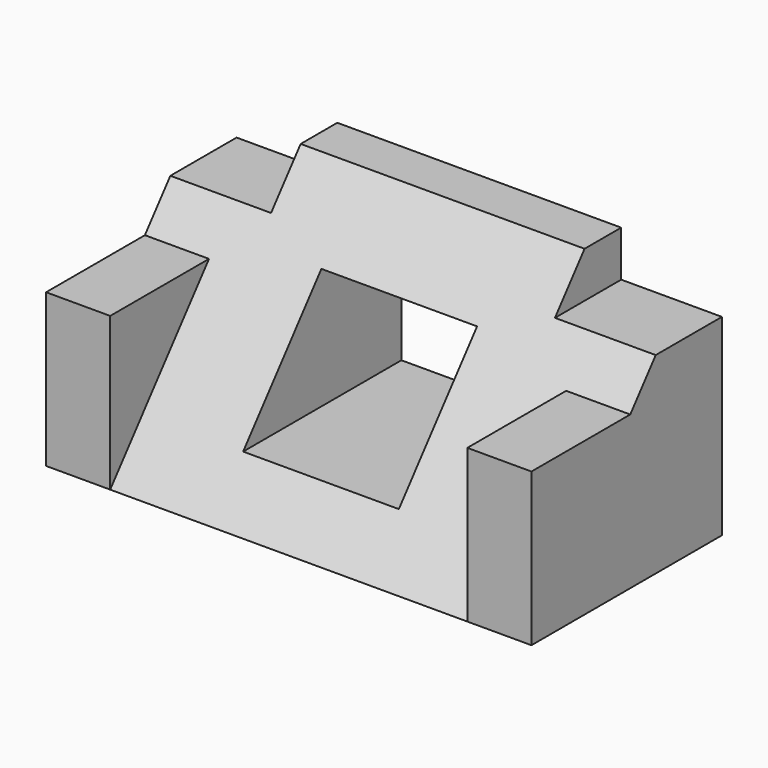
from build123d import *

# Parameters (mm, degrees)
PAD_DEPTH       = 26.5
PAD_DEPTH_BACK  = 26.5
SKETCH001_W     = 5
SKETCH001_H     = 11
POCKET_DEPTH    = 155.012627
SKETCH002_W     = 16.7
SKETCH002_H     = 7
PAD001_DEPTH    = 26
SKETCH004_W     = 13.225
SKETCH004_H     = 17
POCKET001_DEPTH = 26.001


with BuildPart() as part:
    # Sketch → Pad (new body, two sides)
    with BuildSketch(Plane.YZ) as pad_sk:
        Polygon((0, 0), (0, 26), (-5, 26), (-26, 0), align=None)
    extrude(amount=PAD_DEPTH)
    extrude(pad_sk.sketch, amount=-PAD_DEPTH_BACK)

    # Sketch001 (on Face1 of Pad) → Pocket (cut, through all)
    with BuildSketch(Plane.ZX):
        with Locations((23.5, 21)):
            Rectangle(SKETCH001_W, SKETCH001_H)
    pocket = extrude(amount=-POCKET_DEPTH, mode=Mode.SUBTRACT)

    # Mirrored: Pocket across YZ
    add(pocket.mirror(Plane.YZ), mode=Mode.SUBTRACT)

    # Sketch002 (on Face1 of Mirrored) → Pad001 (join)
    with BuildSketch(Plane.ZX):
        with Locations((8.35, 23)):
            Rectangle(SKETCH002_W, SKETCH002_H)
    pad001 = extrude(amount=-PAD001_DEPTH)

    # Mirrored001: Pad001 across YZ
    add(pad001.mirror(Plane.YZ))

    # Sketch004 (on Face2 of Mirrored001) → Pocket001 (cut, through all)
    with BuildSketch(Plane.ZX):
        with Locations((12.058088, 0)):
            Rectangle(SKETCH004_W, SKETCH004_H)
    extrude(amount=-POCKET001_DEPTH, mode=Mode.SUBTRACT)


solid = part.part
